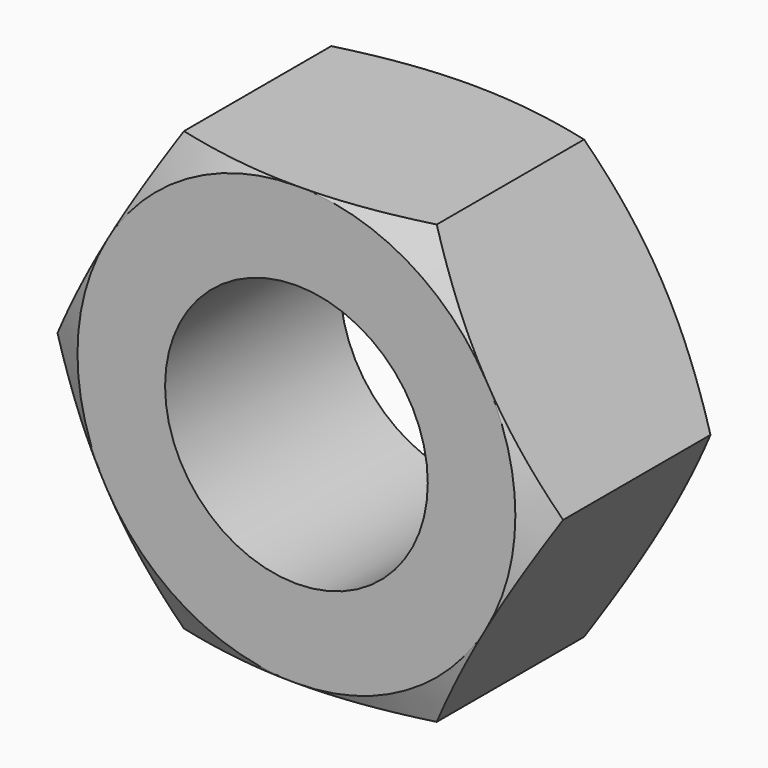
from build123d import *

# Parameters (mm, degrees)
F0_R     = 3
F1_DEPTH = 5


with BuildPart() as f1:
    # F0 (on Front) → F1 (new body)
    with BuildSketch(Plane.XZ):
        Polygon((-2.886751, -5), (2.886751, -5), (5.773503, 0), (2.886751, 5), (-2.886751, 5), (-5.773503, 0), align=None)
        Circle(F0_R, mode=Mode.SUBTRACT)
    extrude(amount=F1_DEPTH)

    # F2 (on Top) → F3 (revolve, cut)
    with BuildSketch(Plane.XY):
        Polygon((-5, 0), (0, 0), (0, 0.444528), (-6.066351, 0.444528), (-5.779915, -0.4), align=None)
        Polygon((0, -5.668143), (0, -5), (-5, -5), (-5.779915, -4.6), (-5.939004, -5.668143), align=None)
    revolve(axis=Axis((0, 0.222264, 0), (0, -1, 0)), mode=Mode.SUBTRACT)


solid = f1.part
